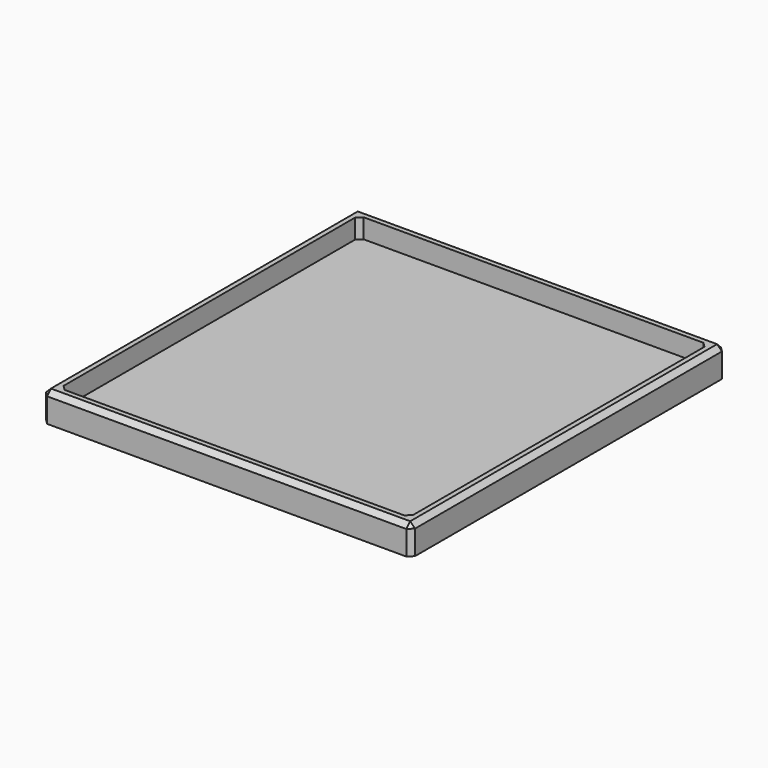
from build123d import *

# Parameters (mm, degrees)
SKETCH005_W     = 76
SKETCH005_H     = 81
PAD001_DEPTH    = 6
SKETCH006_W     = 72
SKETCH006_H     = 77
POCKET004_DEPTH = 4
CHAMFER002_SIZE = 1


with BuildPart() as part:
    # Sketch005 (on Face1 of CopyChamfer001) → Pad001 (new body)
    with BuildSketch(Plane(origin=(0, 0, 0), x_dir=(1, 0, 0), z_dir=(0, 0, -1))):
        Rectangle(SKETCH005_W, SKETCH005_H)
    extrude(amount=PAD001_DEPTH)

    # Sketch006 (on Face5 of Pad001) → Pocket004 (cut)
    with BuildSketch(Plane.XY):
        Rectangle(SKETCH006_W, SKETCH006_H)
    extrude(amount=-POCKET004_DEPTH, mode=Mode.SUBTRACT)

    # Chamfer002
    chamfer002_edges = [part.edges().sort_by_distance(p)[0] for p in [
        (36, -38.5, -2),
        (-36, -38.5, -2),
        (-36, 38.5, -2),
        (36, 38.5, -2),
        (38, -40.5, -3),
        (-38, -40.5, -3),
        (38, 40.5, -3),
        (-38, 40.5, -3),
        (0, 40.5, 0),
        (-38, 0, 0),
        (0, -40.5, 0),
        (38, 0, 0),
    ]]
    chamfer(chamfer002_edges, length=CHAMFER002_SIZE)


solid = part.part
